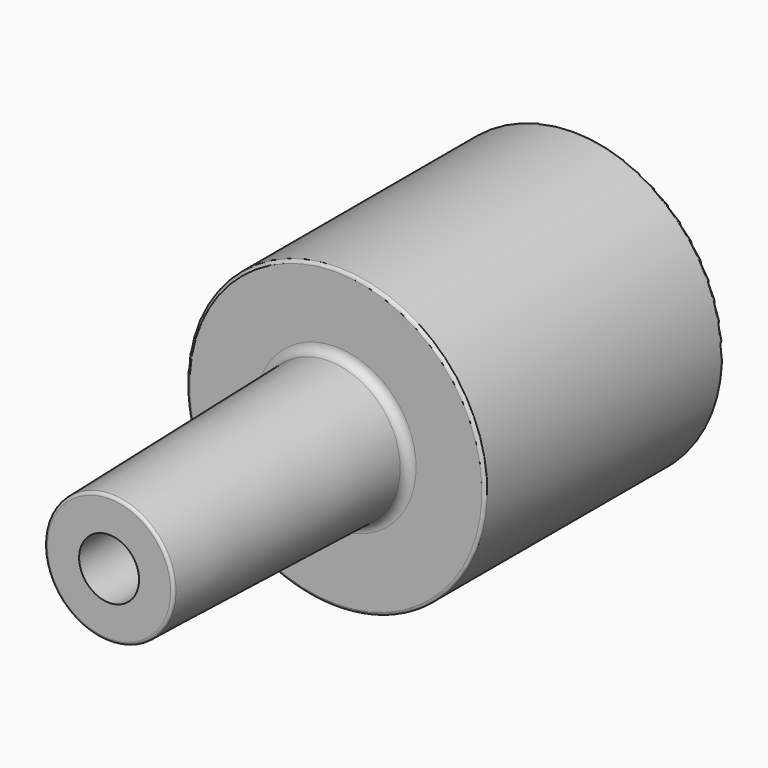
from build123d import *

# Parameters (mm, degrees)
F3_D     = 5.1054
F3_DEPTH = 22.225
F3_TIP   = 1.5338169022
F4_R     = 0.762
F5_R     = 0.254


with BuildPart() as f1:
    # F0 (on Right) → F1 (revolve)
    with BuildSketch(Plane.YZ):
        Polygon((-24.13, 0), (25.4, 0), (25.4, 12.7), (0, 12.7), (0, 6.096), (-24.13, 5.4941811878), align=None)
    revolve(axis=Axis((0, 0.635, 0), (0, 1, 0)))

    # F3
    with Locations(Plane.XZ.offset(24.13)):
        with Locations((0, 0)):
            Hole(F3_D / 2, depth=F3_DEPTH)
            with Locations((0, 0, -(F3_DEPTH + F3_TIP / 2))):  # 118° drill point
                Cone(0, F3_D / 2, F3_TIP, mode=Mode.SUBTRACT)

    # F4
    f4_edges = [f1.edges().sort_by_distance(p)[0] for p in [
        (0, 0, -6.096),
    ]]
    fillet(f4_edges, radius=F4_R)

    # F5
    f5_edges = [f1.edges().sort_by_distance(p)[0] for p in [
        (0, 0, -12.7),
        (0, 25.4, -12.7),
        (0, -24.13, -5.494181),
    ]]
    fillet(f5_edges, radius=F5_R)


solid = f1.part
